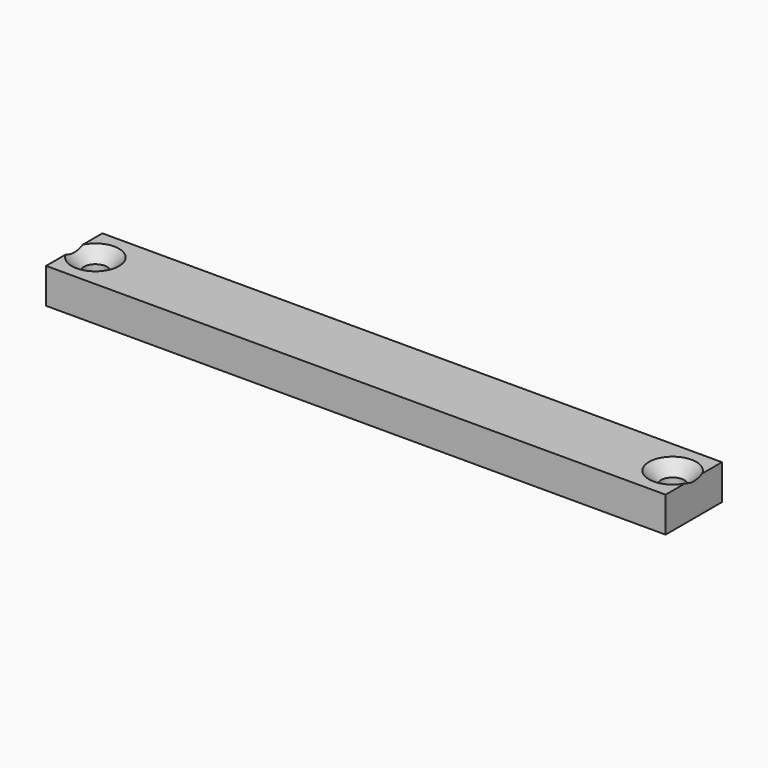
from build123d import *

# Parameters (mm, degrees)
F0_W           = 88
F0_H           = 10
F1_DEPTH       = 5
F3_D           = 3.3
F3_DEPTH       = 15
F3_CSINK_D     = 6.72
F3_CSINK_ANGLE = 90
F3_TIP         = 0.9914200214


with BuildPart() as f1:
    # F0 (on Top) → F1 (new body)
    with BuildSketch(Plane.XY):
        with Locations((44, 5)):
            Rectangle(F0_W, F0_H)
    extrude(amount=F1_DEPTH)

    # F3
    with Locations(Plane.XY.offset(5)):
        with Locations((85, 5), (3, 5)):
            CounterSinkHole(F3_D / 2, F3_CSINK_D / 2, depth=F3_DEPTH, counter_sink_angle=F3_CSINK_ANGLE)
            with Locations((0, 0, -(F3_DEPTH + F3_TIP / 2))):  # 118° drill point
                Cone(0, F3_D / 2, F3_TIP, mode=Mode.SUBTRACT)


solid = f1.part
